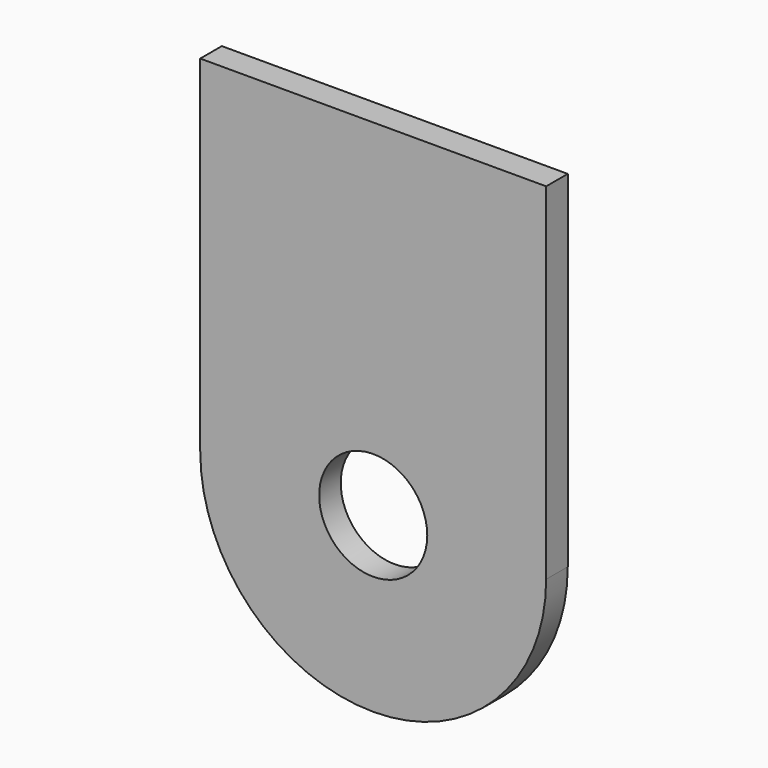
from build123d import *

# Parameters (mm, degrees)
F0_R     = 15.875
F1_DEPTH = 7.9248


with BuildPart() as f1:
    # F0 (on Front) → F1 (new body)
    with BuildSketch(Plane.XZ):
        with BuildLine():
            ThreePointArc((-50.8, 0), (0, -50.8), (50.8, 0))
            ThreePointArc((50.8, 0), (0, 50.8), (-50.8, 0))
        make_face()
        Circle(F0_R, mode=Mode.SUBTRACT)
        with BuildLine():
            ThreePointArc((-50.8, 0), (0, 50.8), (50.8, 0))
            Line((50.8, 0), (50.8, 101.6))
            Line((50.8, 101.6), (-50.8, 101.6))
            Line((-50.8, 101.6), (-50.8, 0))
        make_face()
    extrude(amount=F1_DEPTH)


solid = f1.part
